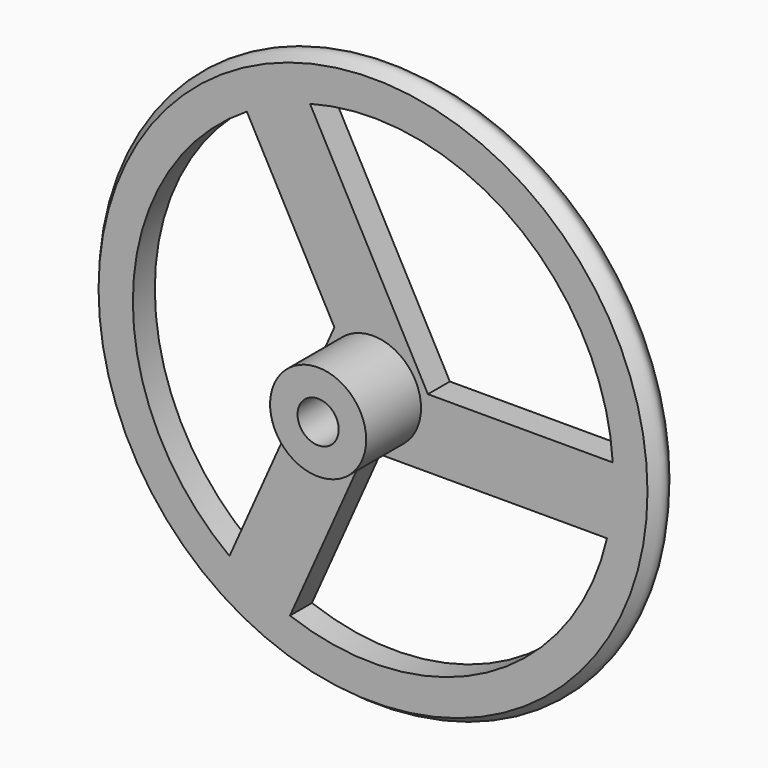
from build123d import *

# Parameters (mm, degrees)
F2_R     = 1.5
F2_R_2   = 17.5
F2_R_3   = 3.5
F3_DEPTH = 500
F5_DEPTH = 2
F6_DEPTH = 5025
F7_DEPTH = 5


with BuildPart() as f1:
    # F0 (on Top) → F1 (revolve)
    with BuildSketch(Plane.XY):
        with BuildLine():
            Line((-20, 0), (0, 0))
            Line((0, 0), (0, 2))
            Line((0, 2), (-20, 2))
            add(Edge.make_bspline(
                [(-20, 2), (-20.24486, 1.67319), (-20.903414, 0.985438), (-20.240018, 0.339687), (-20, 0)],
                knots=[0, 0, 0, 0, 1.159564, 2.304977, 2.304977, 2.304977, 2.304977], degree=3))
        make_face()
    revolve(axis=Axis((0, 1, 0), (0, -1, 0)))

    # F2 (on Front) → F3 (cut, symmetric)
    with BuildSketch(Plane.XZ):
        Circle(F2_R)
        Circle(F2_R_2)
        Circle(F2_R_3, mode=Mode.SUBTRACT)
    extrude(amount=F3_DEPTH, both=True, mode=Mode.SUBTRACT)

    # F4 (on Front) → F5 (join)
    with BuildSketch(Plane.XZ):
        Polygon((-2.813901, 3.125692), (-10.89626, -15.010192), (-6.329258, -17.045502), (-0.491874, -3.947084), (18.91508, -3.947084), (18.91508, 1.052916), (3.999229, 1.052916), (-5.120873, 17.862287), (-9.515686, 15.477835), align=None)
    extrude(amount=-F5_DEPTH)

    # F2 (on Front) → F6 (cut, symmetric)
    with BuildSketch(Plane.XZ):
        Circle(F2_R)
    extrude(amount=F6_DEPTH, both=True, mode=Mode.SUBTRACT)

    # F2 (on Front) → F7 (join)
    with BuildSketch(Plane.XZ):
        Circle(F2_R_3)
        Circle(F2_R, mode=Mode.SUBTRACT)
    extrude(amount=F7_DEPTH)


solid = f1.part
